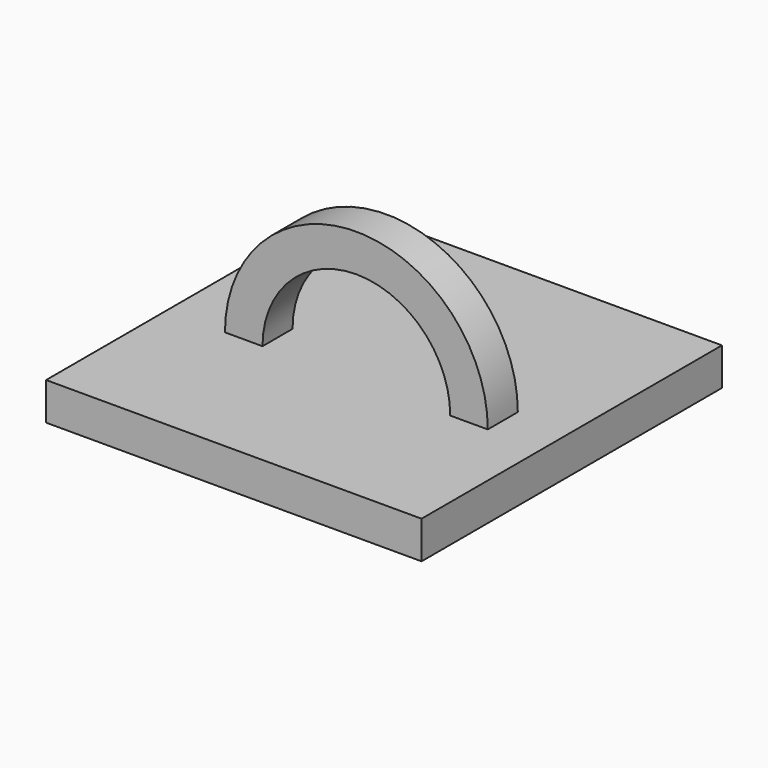
from build123d import *

# Parameters (mm, degrees)
F0_W     = 20
F0_H     = 20
F2_DEPTH = 2
F3_DEPTH = 2


with BuildPart() as f2:
    # F0 (on Top) → F2 (new body)
    with BuildSketch(Plane.XY):
        Rectangle(F0_W, F0_H)
    extrude(amount=F2_DEPTH)


with BuildPart() as f3:
    # F1 (on Front) → F3 (new body)
    with BuildSketch(Plane.XZ):
        with BuildLine():
            ThreePointArc((-4.872052, 2), (0.127948, 7), (5.127948, 2))
            Line((5.127948, 2), (7.127948, 2))
            ThreePointArc((7.127948, 2), (0.127948, 9), (-6.872052, 2))
            Line((-6.872052, 2), (-4.872052, 2))
        make_face()
    extrude(amount=F3_DEPTH)


solid = Compound([f2.part, f3.part])
